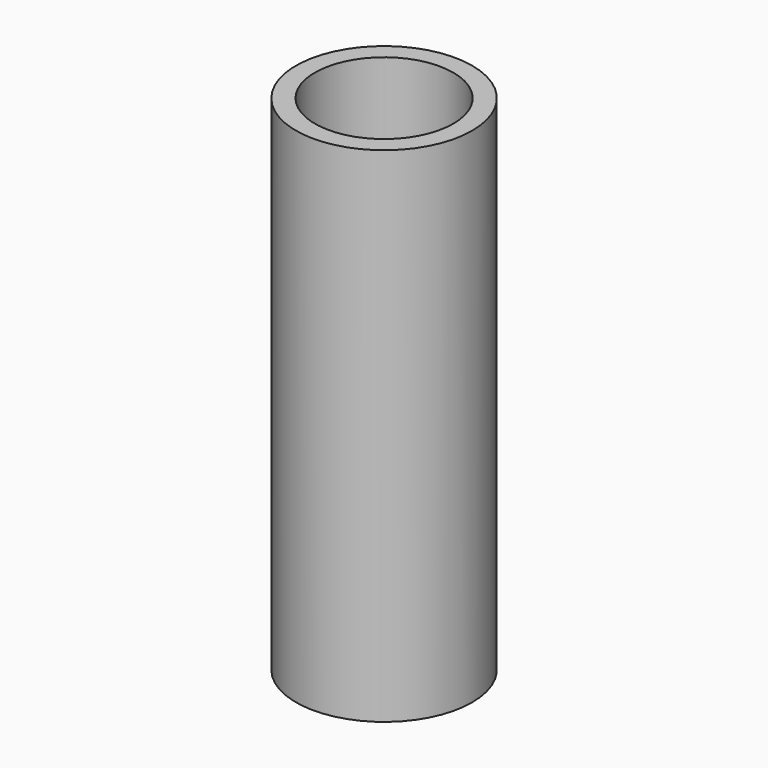
from build123d import *

# Parameters (mm, degrees)
SKETCH_R   = 14
SKETCH_R_2 = 11
PAD_DEPTH  = 80


with BuildPart() as part:
    # Sketch → Pad (new body)
    with BuildSketch(Plane.XY):
        Circle(SKETCH_R)
        Circle(SKETCH_R_2, mode=Mode.SUBTRACT)
    extrude(amount=PAD_DEPTH)


solid = part.part
